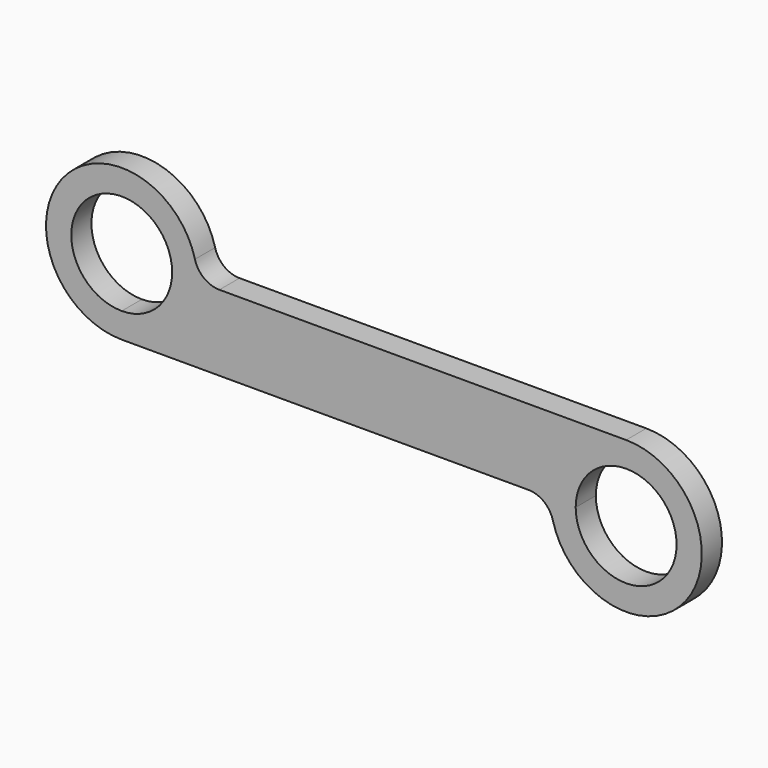
from build123d import *

# Parameters (mm, degrees)
F1_DEPTH = 5
F2_R     = 5


with BuildPart() as f1:
    # F0 (on Front) → F1 (new body)
    with BuildSketch(Plane.XZ):
        with BuildLine():
            Line((-40.3388801531, 15), (-35.3388801531, 15))
            ThreePointArc((-35.3388801531, 15), (-60.9454818709, 25.6066017178), (-50.3388801531, 0))
            Line((-50.3388801531, 0), (-50.3388801531, 5))
            ThreePointArc((-50.3388801531, 5), (-57.409947965, 22.0710678119), (-40.3388801531, 15))
        make_face()
        with BuildLine():
            ThreePointArc((34.6611198469, 0), (39.0545181291, 10.6066017178), (49.6611198469, 15))
            Line((49.6611198469, 15), (-35.3388801531, 15))
            ThreePointArc((-35.3388801531, 15), (-39.7322784353, 4.3933982822), (-50.3388801531, 0))
            Line((-50.3388801531, 0), (34.6611198469, 0))
        make_face()
        with BuildLine():
            ThreePointArc((-50.3388801531, 0), (-39.7322784353, 4.3933982822), (-35.3388801531, 15))
            Line((-35.3388801531, 15), (-40.3388801531, 15))
            ThreePointArc((-40.3388801531, 15), (-43.2678123412, 7.9289321881), (-50.3388801531, 5))
            Line((-50.3388801531, 5), (-50.3388801531, 0))
        make_face()
        with BuildLine():
            ThreePointArc((64.6611198469, 0), (60.2677215647, 10.6066017178), (49.6611198469, 15))
            Line((49.6611198469, 15), (49.6611198469, 10))
            ThreePointArc((49.6611198469, 10), (56.7321876588, 7.0710678119), (59.6611198469, 0))
            ThreePointArc((59.6611198469, 0), (49.6611198469, -10), (39.6611198469, 0))
            Line((39.6611198469, 0), (34.6611198469, 0))
            ThreePointArc((34.6611198469, 0), (49.6611198469, -15), (64.6611198469, 0))
        make_face()
        with BuildLine():
            Line((49.6611198469, 10), (49.6611198469, 15))
            ThreePointArc((49.6611198469, 15), (39.0545181291, 10.6066017178), (34.6611198469, 0))
            Line((34.6611198469, 0), (39.6611198469, 0))
            ThreePointArc((39.6611198469, 0), (42.590052035, 7.0710678119), (49.6611198469, 10))
        make_face()
    extrude(amount=F1_DEPTH)

    # F2
    f2_edges = [f1.edges().sort_by_distance(p)[0] for p in [
        (-35.33888, -2.5, 15),
        (34.66112, -2.5, 0),
    ]]
    fillet(f2_edges, radius=F2_R)


solid = f1.part
